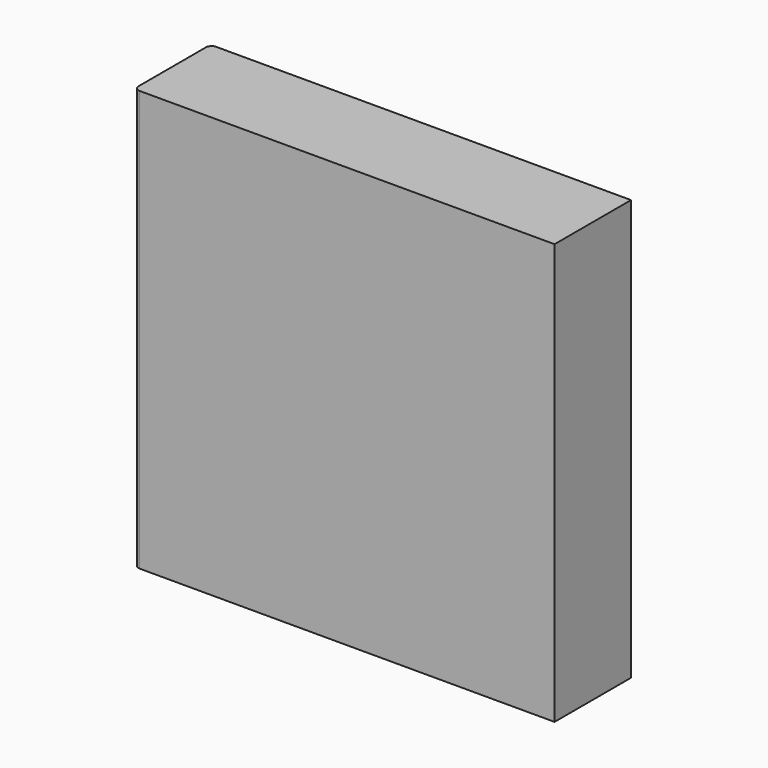
from build123d import *

# Parameters (mm, degrees)
F1_DEPTH = 22


with BuildPart() as f1:
    # F0 (on Top) → F1 (new body)
    with BuildSketch(Plane.XY):
        with BuildLine():
            Line((21.030516, -4.817673), (-0.669484, -4.817673))
            ThreePointArc((-0.669484, -4.817673), (-0.881616, -4.905541), (-0.969484, -5.117673))
            Line((-0.969484, -5.117673), (-0.969484, -9.517673))
            ThreePointArc((-0.969484, -9.517673), (-0.881616, -9.729805), (-0.669484, -9.817673))
            Line((-0.669484, -9.817673), (21.030516, -9.817673))
            Line((21.030516, -9.817673), (21.030516, -4.817673))
        make_face()
    extrude(amount=F1_DEPTH)


solid = f1.part
